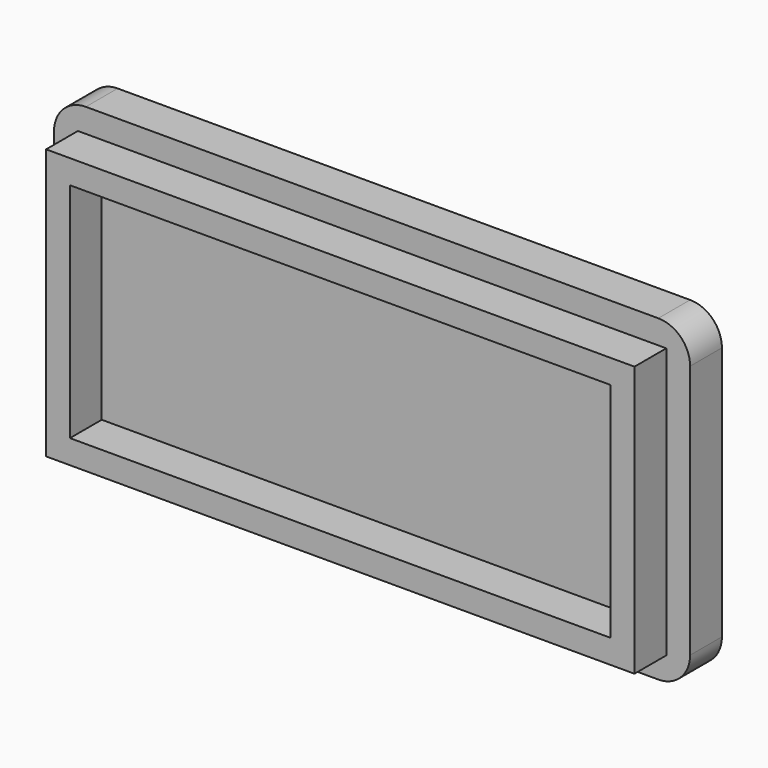
from build123d import *

# Parameters (mm, degrees)
F0_W     = 50.8
F0_H     = 25.4
F0_W_2   = 47.625
F0_H_2   = 22.225
F1_DEPTH = 3.175
F2_W     = 46.99
F2_H     = 21.59
F3_DEPTH = 3.175
F4_W     = 43.18
F4_H     = 17.78
F5_DEPTH = 3.175
F6_R     = 2.54


with BuildPart() as f1:
    # F0 (on Front) → F1 (new body)
    with BuildSketch(Plane.XZ):
        Rectangle(F0_W, F0_H)
        Rectangle(F0_W_2, F0_H_2, mode=Mode.SUBTRACT)
        Rectangle(F0_W_2, F0_H_2)
    extrude(amount=F1_DEPTH)

    # F2 (on face) → F3 (join)
    with BuildSketch(Plane.XZ.offset(3.175)):
        Rectangle(F2_W, F2_H)
    extrude(amount=F3_DEPTH)

    # F4 (on face) → F5 (cut)
    with BuildSketch(Plane.XZ.offset(6.35)):
        Rectangle(F4_W, F4_H)
    extrude(amount=-F5_DEPTH, mode=Mode.SUBTRACT)

    # F6
    f6_edges = [f1.edges().sort_by_distance(p)[0] for p in [
        (-25.4, -1.5875, -12.7),
        (25.4, -1.5875, -12.7),
        (25.4, -1.5875, 12.7),
        (-25.4, -1.5875, 12.7),
    ]]
    fillet(f6_edges, radius=F6_R)


solid = f1.part
